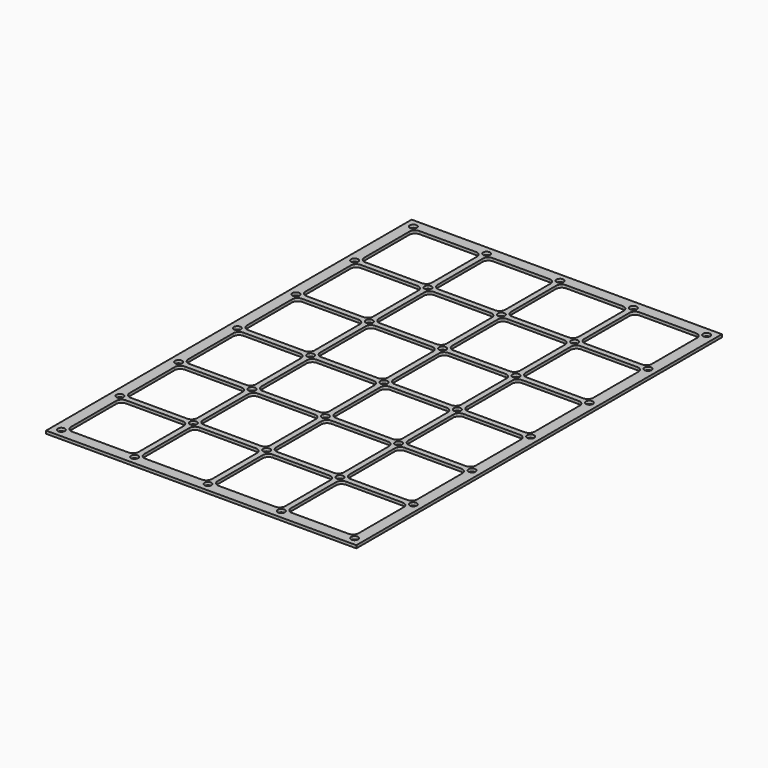
from build123d import *

# Parameters (mm, degrees)
F0_W     = 349.25
F0_H     = 514.35
F0_R     = 3.96875
F1_DEPTH = 3.175


with BuildPart() as f1:
    # F0 (on Top) → F1 (new body)
    with BuildSketch(Plane.XY):
        with Locations((174.625, 257.175)):
            Rectangle(F0_W, F0_H)
        with Locations((9.525, 9.525)):
            Circle(F0_R, mode=Mode.SUBTRACT)
        with BuildLine():
            Line((82.55, 12.7), (19.05, 12.7))
            ThreePointArc((19.05, 12.7), (14.559872, 14.559872), (12.7, 19.05))
            Line((12.7, 19.05), (12.7, 82.55))
            ThreePointArc((12.7, 82.55), (14.559872, 87.040128), (19.05, 88.9))
            Line((19.05, 88.9), (82.55, 88.9))
            ThreePointArc((82.55, 88.9), (87.040128, 87.040128), (88.9, 82.55))
            Line((88.9, 82.55), (88.9, 19.05))
            ThreePointArc((88.9, 19.05), (87.040128, 14.559872), (82.55, 12.7))
        make_face(mode=Mode.SUBTRACT)
        with Locations((9.525, 92.075)):
            Circle(F0_R, mode=Mode.SUBTRACT)
        with Locations((92.075, 9.525)):
            Circle(F0_R, mode=Mode.SUBTRACT)
        with BuildLine():
            ThreePointArc((95.25, 82.55), (97.109872, 87.040128), (101.6, 88.9))
            Line((101.6, 88.9), (165.1, 88.9))
            ThreePointArc((165.1, 88.9), (169.590128, 87.040128), (171.45, 82.55))
            Line((171.45, 82.55), (171.45, 19.05))
            ThreePointArc((171.45, 19.05), (169.590128, 14.559872), (165.1, 12.7))
            Line((165.1, 12.7), (101.6, 12.7))
            ThreePointArc((101.6, 12.7), (97.109872, 14.559872), (95.25, 19.05))
            Line((95.25, 19.05), (95.25, 82.55))
        make_face(mode=Mode.SUBTRACT)
        with Locations((92.075, 92.075)):
            Circle(F0_R, mode=Mode.SUBTRACT)
        with Locations((9.525, 174.625)):
            Circle(F0_R, mode=Mode.SUBTRACT)
        with BuildLine():
            ThreePointArc((12.7, 165.1), (14.559872, 169.590128), (19.05, 171.45))
            Line((19.05, 171.45), (82.55, 171.45))
            ThreePointArc((82.55, 171.45), (87.040128, 169.590128), (88.9, 165.1))
            Line((88.9, 165.1), (88.9, 101.6))
            ThreePointArc((88.9, 101.6), (87.040128, 97.109872), (82.55, 95.25))
            Line((82.55, 95.25), (19.05, 95.25))
            ThreePointArc((19.05, 95.25), (14.559872, 97.109872), (12.7, 101.6))
            Line((12.7, 101.6), (12.7, 165.1))
        make_face(mode=Mode.SUBTRACT)
        with BuildLine():
            ThreePointArc((12.7, 247.65), (14.559872, 252.140128), (19.05, 254))
            Line((19.05, 254), (82.55, 254))
            ThreePointArc((82.55, 254), (87.040128, 252.140128), (88.9, 247.65))
            Line((88.9, 247.65), (88.9, 184.15))
            ThreePointArc((88.9, 184.15), (87.040128, 179.659872), (82.55, 177.8))
            Line((82.55, 177.8), (19.05, 177.8))
            ThreePointArc((19.05, 177.8), (14.559872, 179.659872), (12.7, 184.15))
            Line((12.7, 184.15), (12.7, 247.65))
        make_face(mode=Mode.SUBTRACT)
        with Locations((92.075, 174.625)):
            Circle(F0_R, mode=Mode.SUBTRACT)
        with BuildLine():
            ThreePointArc((95.25, 165.1), (97.109872, 169.590128), (101.6, 171.45))
            Line((101.6, 171.45), (165.1, 171.45))
            ThreePointArc((165.1, 171.45), (169.590128, 169.590128), (171.45, 165.1))
            Line((171.45, 165.1), (171.45, 101.6))
            ThreePointArc((171.45, 101.6), (169.590128, 97.109872), (165.1, 95.25))
            Line((165.1, 95.25), (101.6, 95.25))
            ThreePointArc((101.6, 95.25), (97.109872, 97.109872), (95.25, 101.6))
            Line((95.25, 101.6), (95.25, 165.1))
        make_face(mode=Mode.SUBTRACT)
        with BuildLine():
            ThreePointArc((95.25, 247.65), (97.109872, 252.140128), (101.6, 254))
            Line((101.6, 254), (165.1, 254))
            ThreePointArc((165.1, 254), (169.590128, 252.140128), (171.45, 247.65))
            Line((171.45, 247.65), (171.45, 184.15))
            ThreePointArc((171.45, 184.15), (169.590128, 179.659872), (165.1, 177.8))
            Line((165.1, 177.8), (101.6, 177.8))
            ThreePointArc((101.6, 177.8), (97.109872, 179.659872), (95.25, 184.15))
            Line((95.25, 184.15), (95.25, 247.65))
        make_face(mode=Mode.SUBTRACT)
        with Locations((174.625, 9.525)):
            Circle(F0_R, mode=Mode.SUBTRACT)
        with BuildLine():
            ThreePointArc((177.8, 82.55), (179.659872, 87.040128), (184.15, 88.9))
            Line((184.15, 88.9), (247.65, 88.9))
            ThreePointArc((247.65, 88.9), (252.140128, 87.040128), (254, 82.55))
            Line((254, 82.55), (254, 19.05))
            ThreePointArc((254, 19.05), (252.140128, 14.559872), (247.65, 12.7))
            Line((247.65, 12.7), (184.15, 12.7))
            ThreePointArc((184.15, 12.7), (179.659872, 14.559872), (177.8, 19.05))
            Line((177.8, 19.05), (177.8, 82.55))
        make_face(mode=Mode.SUBTRACT)
        with Locations((257.175, 9.525)):
            Circle(F0_R, mode=Mode.SUBTRACT)
        with Locations((174.625, 92.075)):
            Circle(F0_R, mode=Mode.SUBTRACT)
        with Locations((257.175, 92.075)):
            Circle(F0_R, mode=Mode.SUBTRACT)
        with BuildLine():
            ThreePointArc((260.35, 82.55), (262.209872, 87.040128), (266.7, 88.9))
            Line((266.7, 88.9), (330.2, 88.9))
            ThreePointArc((330.2, 88.9), (334.690128, 87.040128), (336.55, 82.55))
            Line((336.55, 82.55), (336.55, 19.05))
            ThreePointArc((336.55, 19.05), (334.690128, 14.559872), (330.2, 12.7))
            Line((330.2, 12.7), (266.7, 12.7))
            ThreePointArc((266.7, 12.7), (262.209872, 14.559872), (260.35, 19.05))
            Line((260.35, 19.05), (260.35, 82.55))
        make_face(mode=Mode.SUBTRACT)
        with Locations((339.725, 9.525)):
            Circle(F0_R, mode=Mode.SUBTRACT)
        with Locations((339.725, 92.075)):
            Circle(F0_R, mode=Mode.SUBTRACT)
        with BuildLine():
            ThreePointArc((177.8, 165.1), (179.659872, 169.590128), (184.15, 171.45))
            Line((184.15, 171.45), (247.65, 171.45))
            ThreePointArc((247.65, 171.45), (252.140128, 169.590128), (254, 165.1))
            Line((254, 165.1), (254, 101.6))
            ThreePointArc((254, 101.6), (252.140128, 97.109872), (247.65, 95.25))
            Line((247.65, 95.25), (184.15, 95.25))
            ThreePointArc((184.15, 95.25), (179.659872, 97.109872), (177.8, 101.6))
            Line((177.8, 101.6), (177.8, 165.1))
        make_face(mode=Mode.SUBTRACT)
        with Locations((174.625, 174.625)):
            Circle(F0_R, mode=Mode.SUBTRACT)
        with Locations((257.175, 174.625)):
            Circle(F0_R, mode=Mode.SUBTRACT)
        with BuildLine():
            ThreePointArc((177.8, 247.65), (179.659872, 252.140128), (184.15, 254))
            Line((184.15, 254), (247.65, 254))
            ThreePointArc((247.65, 254), (252.140128, 252.140128), (254, 247.65))
            Line((254, 247.65), (254, 184.15))
            ThreePointArc((254, 184.15), (252.140128, 179.659872), (247.65, 177.8))
            Line((247.65, 177.8), (184.15, 177.8))
            ThreePointArc((184.15, 177.8), (179.659872, 179.659872), (177.8, 184.15))
            Line((177.8, 184.15), (177.8, 247.65))
        make_face(mode=Mode.SUBTRACT)
        with BuildLine():
            ThreePointArc((260.35, 165.1), (262.209872, 169.590128), (266.7, 171.45))
            Line((266.7, 171.45), (330.2, 171.45))
            ThreePointArc((330.2, 171.45), (334.690128, 169.590128), (336.55, 165.1))
            Line((336.55, 165.1), (336.55, 101.6))
            ThreePointArc((336.55, 101.6), (334.690128, 97.109872), (330.2, 95.25))
            Line((330.2, 95.25), (266.7, 95.25))
            ThreePointArc((266.7, 95.25), (262.209872, 97.109872), (260.35, 101.6))
            Line((260.35, 101.6), (260.35, 165.1))
        make_face(mode=Mode.SUBTRACT)
        with Locations((339.725, 174.625)):
            Circle(F0_R, mode=Mode.SUBTRACT)
        with BuildLine():
            ThreePointArc((260.35, 247.65), (262.209872, 252.140128), (266.7, 254))
            Line((266.7, 254), (330.2, 254))
            ThreePointArc((330.2, 254), (334.690128, 252.140128), (336.55, 247.65))
            Line((336.55, 247.65), (336.55, 184.15))
            ThreePointArc((336.55, 184.15), (334.690128, 179.659872), (330.2, 177.8))
            Line((330.2, 177.8), (266.7, 177.8))
            ThreePointArc((266.7, 177.8), (262.209872, 179.659872), (260.35, 184.15))
            Line((260.35, 184.15), (260.35, 247.65))
        make_face(mode=Mode.SUBTRACT)
        with Locations((9.525, 257.175)):
            Circle(F0_R, mode=Mode.SUBTRACT)
        with BuildLine():
            ThreePointArc((12.7, 330.2), (14.559872, 334.690128), (19.05, 336.55))
            Line((19.05, 336.55), (82.55, 336.55))
            ThreePointArc((82.55, 336.55), (87.040128, 334.690128), (88.9, 330.2))
            Line((88.9, 330.2), (88.9, 266.7))
            ThreePointArc((88.9, 266.7), (87.040128, 262.209872), (82.55, 260.35))
            Line((82.55, 260.35), (19.05, 260.35))
            ThreePointArc((19.05, 260.35), (14.559872, 262.209872), (12.7, 266.7))
            Line((12.7, 266.7), (12.7, 330.2))
        make_face(mode=Mode.SUBTRACT)
        with Locations((9.525, 339.725)):
            Circle(F0_R, mode=Mode.SUBTRACT)
        with BuildLine():
            ThreePointArc((12.7, 412.75), (14.559872, 417.240128), (19.05, 419.1))
            Line((19.05, 419.1), (82.55, 419.1))
            ThreePointArc((82.55, 419.1), (87.040128, 417.240128), (88.9, 412.75))
            Line((88.9, 412.75), (88.9, 349.25))
            ThreePointArc((88.9, 349.25), (87.040128, 344.759872), (82.55, 342.9))
            Line((82.55, 342.9), (19.05, 342.9))
            ThreePointArc((19.05, 342.9), (14.559872, 344.759872), (12.7, 349.25))
            Line((12.7, 349.25), (12.7, 412.75))
        make_face(mode=Mode.SUBTRACT)
        with Locations((92.075, 257.175)):
            Circle(F0_R, mode=Mode.SUBTRACT)
        with BuildLine():
            ThreePointArc((95.25, 330.2), (97.109872, 334.690128), (101.6, 336.55))
            Line((101.6, 336.55), (165.1, 336.55))
            ThreePointArc((165.1, 336.55), (169.590128, 334.690128), (171.45, 330.2))
            Line((171.45, 330.2), (171.45, 266.7))
            ThreePointArc((171.45, 266.7), (169.590128, 262.209872), (165.1, 260.35))
            Line((165.1, 260.35), (101.6, 260.35))
            ThreePointArc((101.6, 260.35), (97.109872, 262.209872), (95.25, 266.7))
            Line((95.25, 266.7), (95.25, 330.2))
        make_face(mode=Mode.SUBTRACT)
        with Locations((92.075, 339.725)):
            Circle(F0_R, mode=Mode.SUBTRACT)
        with BuildLine():
            ThreePointArc((95.25, 412.75), (97.109872, 417.240128), (101.6, 419.1))
            Line((101.6, 419.1), (165.1, 419.1))
            ThreePointArc((165.1, 419.1), (169.590128, 417.240128), (171.45, 412.75))
            Line((171.45, 412.75), (171.45, 349.25))
            ThreePointArc((171.45, 349.25), (169.590128, 344.759872), (165.1, 342.9))
            Line((165.1, 342.9), (101.6, 342.9))
            ThreePointArc((101.6, 342.9), (97.109872, 344.759872), (95.25, 349.25))
            Line((95.25, 349.25), (95.25, 412.75))
        make_face(mode=Mode.SUBTRACT)
        with Locations((9.525, 422.275)):
            Circle(F0_R, mode=Mode.SUBTRACT)
        with Locations((9.525, 504.825)):
            Circle(F0_R, mode=Mode.SUBTRACT)
        with BuildLine():
            ThreePointArc((12.7, 495.3), (14.559872, 499.790128), (19.05, 501.65))
            Line((19.05, 501.65), (82.55, 501.65))
            ThreePointArc((82.55, 501.65), (87.040128, 499.790128), (88.9, 495.3))
            Line((88.9, 495.3), (88.9, 431.8))
            ThreePointArc((88.9, 431.8), (87.040128, 427.309872), (82.55, 425.45))
            Line((82.55, 425.45), (19.05, 425.45))
            ThreePointArc((19.05, 425.45), (14.559872, 427.309872), (12.7, 431.8))
            Line((12.7, 431.8), (12.7, 495.3))
        make_face(mode=Mode.SUBTRACT)
        with Locations((92.075, 422.275)):
            Circle(F0_R, mode=Mode.SUBTRACT)
        with Locations((92.075, 504.825)):
            Circle(F0_R, mode=Mode.SUBTRACT)
        with BuildLine():
            ThreePointArc((95.25, 495.3), (97.109872, 499.790128), (101.6, 501.65))
            Line((101.6, 501.65), (165.1, 501.65))
            ThreePointArc((165.1, 501.65), (169.590128, 499.790128), (171.45, 495.3))
            Line((171.45, 495.3), (171.45, 431.8))
            ThreePointArc((171.45, 431.8), (169.590128, 427.309872), (165.1, 425.45))
            Line((165.1, 425.45), (101.6, 425.45))
            ThreePointArc((101.6, 425.45), (97.109872, 427.309872), (95.25, 431.8))
            Line((95.25, 431.8), (95.25, 495.3))
        make_face(mode=Mode.SUBTRACT)
        with Locations((174.625, 257.175)):
            Circle(F0_R, mode=Mode.SUBTRACT)
        with BuildLine():
            ThreePointArc((177.8, 330.2), (179.659872, 334.690128), (184.15, 336.55))
            Line((184.15, 336.55), (247.65, 336.55))
            ThreePointArc((247.65, 336.55), (252.140128, 334.690128), (254, 330.2))
            Line((254, 330.2), (254, 266.7))
            ThreePointArc((254, 266.7), (252.140128, 262.209872), (247.65, 260.35))
            Line((247.65, 260.35), (184.15, 260.35))
            ThreePointArc((184.15, 260.35), (179.659872, 262.209872), (177.8, 266.7))
            Line((177.8, 266.7), (177.8, 330.2))
        make_face(mode=Mode.SUBTRACT)
        with Locations((257.175, 257.175)):
            Circle(F0_R, mode=Mode.SUBTRACT)
        with Locations((174.625, 339.725)):
            Circle(F0_R, mode=Mode.SUBTRACT)
        with BuildLine():
            ThreePointArc((177.8, 412.75), (179.659872, 417.240128), (184.15, 419.1))
            Line((184.15, 419.1), (247.65, 419.1))
            ThreePointArc((247.65, 419.1), (252.140128, 417.240128), (254, 412.75))
            Line((254, 412.75), (254, 349.25))
            ThreePointArc((254, 349.25), (252.140128, 344.759872), (247.65, 342.9))
            Line((247.65, 342.9), (184.15, 342.9))
            ThreePointArc((184.15, 342.9), (179.659872, 344.759872), (177.8, 349.25))
            Line((177.8, 349.25), (177.8, 412.75))
        make_face(mode=Mode.SUBTRACT)
        with Locations((257.175, 339.725)):
            Circle(F0_R, mode=Mode.SUBTRACT)
        with BuildLine():
            ThreePointArc((260.35, 330.2), (262.209872, 334.690128), (266.7, 336.55))
            Line((266.7, 336.55), (330.2, 336.55))
            ThreePointArc((330.2, 336.55), (334.690128, 334.690128), (336.55, 330.2))
            Line((336.55, 330.2), (336.55, 266.7))
            ThreePointArc((336.55, 266.7), (334.690128, 262.209872), (330.2, 260.35))
            Line((330.2, 260.35), (266.7, 260.35))
            ThreePointArc((266.7, 260.35), (262.209872, 262.209872), (260.35, 266.7))
            Line((260.35, 266.7), (260.35, 330.2))
        make_face(mode=Mode.SUBTRACT)
        with Locations((339.725, 257.175)):
            Circle(F0_R, mode=Mode.SUBTRACT)
        with BuildLine():
            ThreePointArc((260.35, 412.75), (262.209872, 417.240128), (266.7, 419.1))
            Line((266.7, 419.1), (330.2, 419.1))
            ThreePointArc((330.2, 419.1), (334.690128, 417.240128), (336.55, 412.75))
            Line((336.55, 412.75), (336.55, 349.25))
            ThreePointArc((336.55, 349.25), (334.690128, 344.759872), (330.2, 342.9))
            Line((330.2, 342.9), (266.7, 342.9))
            ThreePointArc((266.7, 342.9), (262.209872, 344.759872), (260.35, 349.25))
            Line((260.35, 349.25), (260.35, 412.75))
        make_face(mode=Mode.SUBTRACT)
        with Locations((339.725, 339.725)):
            Circle(F0_R, mode=Mode.SUBTRACT)
        with Locations((174.625, 422.275)):
            Circle(F0_R, mode=Mode.SUBTRACT)
        with Locations((257.175, 422.275)):
            Circle(F0_R, mode=Mode.SUBTRACT)
        with BuildLine():
            ThreePointArc((177.8, 495.3), (179.659872, 499.790128), (184.15, 501.65))
            Line((184.15, 501.65), (247.65, 501.65))
            ThreePointArc((247.65, 501.65), (252.140128, 499.790128), (254, 495.3))
            Line((254, 495.3), (254, 431.8))
            ThreePointArc((254, 431.8), (252.140128, 427.309872), (247.65, 425.45))
            Line((247.65, 425.45), (184.15, 425.45))
            ThreePointArc((184.15, 425.45), (179.659872, 427.309872), (177.8, 431.8))
            Line((177.8, 431.8), (177.8, 495.3))
        make_face(mode=Mode.SUBTRACT)
        with Locations((174.625, 504.825)):
            Circle(F0_R, mode=Mode.SUBTRACT)
        with Locations((257.175, 504.825)):
            Circle(F0_R, mode=Mode.SUBTRACT)
        with Locations((339.725, 422.275)):
            Circle(F0_R, mode=Mode.SUBTRACT)
        with BuildLine():
            ThreePointArc((260.35, 495.3), (262.209872, 499.790128), (266.7, 501.65))
            Line((266.7, 501.65), (330.2, 501.65))
            ThreePointArc((330.2, 501.65), (334.690128, 499.790128), (336.55, 495.3))
            Line((336.55, 495.3), (336.55, 431.8))
            ThreePointArc((336.55, 431.8), (334.690128, 427.309872), (330.2, 425.45))
            Line((330.2, 425.45), (266.7, 425.45))
            ThreePointArc((266.7, 425.45), (262.209872, 427.309872), (260.35, 431.8))
            Line((260.35, 431.8), (260.35, 495.3))
        make_face(mode=Mode.SUBTRACT)
        with Locations((339.725, 504.825)):
            Circle(F0_R, mode=Mode.SUBTRACT)
    extrude(amount=F1_DEPTH)


solid = f1.part
